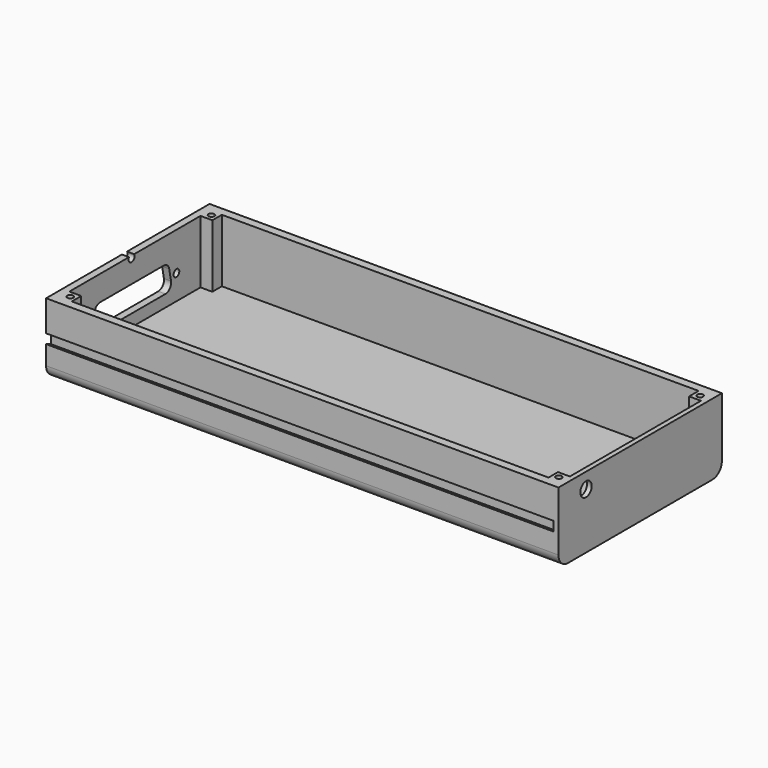
from build123d import *

# Parameters (mm, degrees)
F1_DEPTH = 210.7
F0_W     = 79
F0_H     = 26.5
F0_R     = 3
F2_DEPTH = 2
F3_DEPTH = 2
F4_R     = 1.5
F5_DEPTH = 3
F6_W     = 5
F6_H     = 5
F6_R     = 1.25
F7_DEPTH = 26.5


with BuildPart() as f1:
    # F0 (on Right) → F1 (new body)
    with BuildSketch(Plane.YZ):
        with BuildLine():
            Line((-79, -29.7321164519), (-79, -3.2321164519))
            Line((-79, -3.2321164519), (-82.5, -3.2321164519))
            Line((-82.5, -3.2321164519), (-82.5, -16.2321164519))
            Line((-82.5, -16.2321164519), (-80, -16.2321164519))
            Line((-80, -16.2321164519), (-80, -21.2321164519))
            Line((-80, -21.2321164519), (-82.5, -20.2321164519))
            Line((-82.5, -20.2321164519), (-82.5, -28.2321164519))
            ThreePointArc((-82.5, -28.2321164519), (-81.0355339059, -31.7676503579), (-77.5, -33.2321164519))
            Line((-77.5, -33.2321164519), (-1.5, -33.2321164519))
            ThreePointArc((-1.5, -33.2321164519), (2.0355339059, -31.7676503579), (3.5, -28.2321164519))
            Line((3.5, -28.2321164519), (3.5, -20.2321164519))
            Line((3.5, -20.2321164519), (1, -21.2321164519))
            Line((1, -21.2321164519), (1, -16.2321164519))
            Line((1, -16.2321164519), (3.5, -16.2321164519))
            Line((3.5, -16.2321164519), (3.5, -3.2321164519))
            Line((3.5, -3.2321164519), (0, -3.2321164519))
            Line((0, -3.2321164519), (0, -29.7321164519))
            Line((0, -29.7321164519), (-79, -29.7321164519))
        make_face()
    extrude(amount=-F1_DEPTH)

    # F0 (on Right) → F2 (join)
    with BuildSketch(Plane.YZ):
        with Locations((-39.5, -16.4821164519)):
            Rectangle(F0_W, F0_H)
        with Locations((-68, -9.7321164519)):
            Circle(F0_R, mode=Mode.SUBTRACT)
        Polygon((-80, -16.2321164519), (-82.5, -16.2321164519), (-82.5, -20.2321164519), (-80, -21.2321164519), align=None)
        Polygon((3.5, -20.2321164519), (3.5, -16.2321164519), (1, -16.2321164519), (1, -21.2321164519), align=None)
    extrude(amount=F2_DEPTH)

    # F0 (on Right) → F3 (join, through all)
    with BuildSketch(Plane.YZ):
        with BuildLine():
            Line((-79, -29.7321164519), (-79, -3.2321164519))
            Line((-79, -3.2321164519), (-82.5, -3.2321164519))
            Line((-82.5, -3.2321164519), (-82.5, -16.2321164519))
            Line((-82.5, -16.2321164519), (-80, -16.2321164519))
            Line((-80, -16.2321164519), (-80, -21.2321164519))
            Line((-80, -21.2321164519), (-82.5, -20.2321164519))
            Line((-82.5, -20.2321164519), (-82.5, -28.2321164519))
            ThreePointArc((-82.5, -28.2321164519), (-81.0355339059, -31.7676503579), (-77.5, -33.2321164519))
            Line((-77.5, -33.2321164519), (-1.5, -33.2321164519))
            ThreePointArc((-1.5, -33.2321164519), (2.0355339059, -31.7676503579), (3.5, -28.2321164519))
            Line((3.5, -28.2321164519), (3.5, -20.2321164519))
            Line((3.5, -20.2321164519), (1, -21.2321164519))
            Line((1, -21.2321164519), (1, -16.2321164519))
            Line((1, -16.2321164519), (3.5, -16.2321164519))
            Line((3.5, -16.2321164519), (3.5, -3.2321164519))
            Line((3.5, -3.2321164519), (0, -3.2321164519))
            Line((0, -3.2321164519), (0, -29.7321164519))
            Line((0, -29.7321164519), (-79, -29.7321164519))
        make_face()
    extrude(amount=F3_DEPTH)

    # F4 (on face) → F5 (join)
    with BuildSketch(Plane(origin=(-210.7, 0, 0), x_dir=(0, -1, 0), z_dir=(-1, 0, 0))):
        with BuildLine():
            Line((39.8976451881, -3.2321164519), (0, -3.2321164519))
            Line((0, -3.2321164519), (0, -29.7321164519))
            Line((0, -29.7321164519), (79, -29.7321164519))
            Line((79, -29.7321164519), (79, -3.2321164519))
            Line((79, -3.2321164519), (42.5981824726, -3.2321164519))
            ThreePointArc((42.5981824726, -3.2321164519), (42.7783306428, -3.6368593662), (42.839971074, -4.0755741336))
            ThreePointArc((42.839971074, -4.0755741336), (40.809199063, -5.605990946), (39.8976451881, -3.2321164519))
        make_face()
        with Locations((17.6456464854, -19.2755741336)):
            Circle(F4_R, mode=Mode.SUBTRACT)
        with BuildLine():
            Line((20.5, -21.1070965323), (21.4456464854, -16.2070965323))
            ThreePointArc((21.4456464854, -16.2070965323), (22.4815067005, -14.4619803054), (24.3912929708, -13.7755741336))
            Line((24.3912929708, -13.7755741336), (57.8, -13.7755741336))
            ThreePointArc((57.8, -13.7755741336), (59.7097862703, -14.4619803054), (60.7456464854, -16.2070965323))
            Line((60.7456464854, -16.2070965323), (61.6912929708, -21.1070965323))
            ThreePointArc((61.6912929708, -21.1070965323), (61.0592403136, -23.5853604038), (58.7456464854, -24.6755741336))
            Line((58.7456464854, -24.6755741336), (23.4456464854, -24.6755741336))
            ThreePointArc((23.4456464854, -24.6755741336), (21.1320526572, -23.5853604038), (20.5, -21.1070965323))
        make_face(mode=Mode.SUBTRACT)
        with Locations((64.5456464854, -19.2755741336)):
            Circle(F4_R, mode=Mode.SUBTRACT)
        with BuildLine():
            Line((0, -3.2321164519), (-3.5, -3.2321164519))
            Line((-3.5, -3.2321164519), (-3.5, -16.2321164519))
            Line((-3.5, -16.2321164519), (-1, -16.2321164519))
            Line((-1, -16.2321164519), (-1, -21.2321164519))
            Line((-1, -21.2321164519), (-3.5, -20.2321164519))
            Line((-3.5, -20.2321164519), (-3.5, -28.2321164519))
            ThreePointArc((-3.5, -28.2321164519), (-2.0355339059, -31.7676503579), (1.5, -33.2321164519))
            Line((1.5, -33.2321164519), (77.5, -33.2321164519))
            ThreePointArc((77.5, -33.2321164519), (81.0355339059, -31.7676503579), (82.5, -28.2321164519))
            Line((82.5, -28.2321164519), (82.5, -20.2321164519))
            Line((82.5, -20.2321164519), (80, -21.2321164519))
            Line((80, -21.2321164519), (80, -16.2321164519))
            Line((80, -16.2321164519), (82.5, -16.2321164519))
            Line((82.5, -16.2321164519), (82.5, -3.2321164519))
            Line((82.5, -3.2321164519), (79, -3.2321164519))
            Line((79, -3.2321164519), (79, -29.7321164519))
            Line((79, -29.7321164519), (0, -29.7321164519))
            Line((0, -29.7321164519), (0, -3.2321164519))
        make_face()
    extrude(amount=F5_DEPTH)

    # F6 (on face) → F7 (join, through all)
    with BuildSketch(Plane.XY.offset(-29.7321164519)):
        with Locations((-2.5, -76.5)):
            Rectangle(F6_W, F6_H)
        with Locations((-2.5, -76.6462582126)):
            Circle(F6_R, mode=Mode.SUBTRACT)
        with Locations((-2.5, -2.5)):
            Rectangle(F6_W, F6_H)
        with Locations((-2.5, -2.3537417874)):
            Circle(F6_R, mode=Mode.SUBTRACT)
        with Locations((-208.2, -2.5)):
            Rectangle(F6_W, F6_H)
        with Locations((-208.2, -2.3537417874)):
            Circle(F6_R, mode=Mode.SUBTRACT)
        with Locations((-208.2, -76.5)):
            Rectangle(F6_W, F6_H)
        with Locations((-208.2, -76.6462582126)):
            Circle(F6_R, mode=Mode.SUBTRACT)
    extrude(amount=F7_DEPTH)


solid = f1.part
